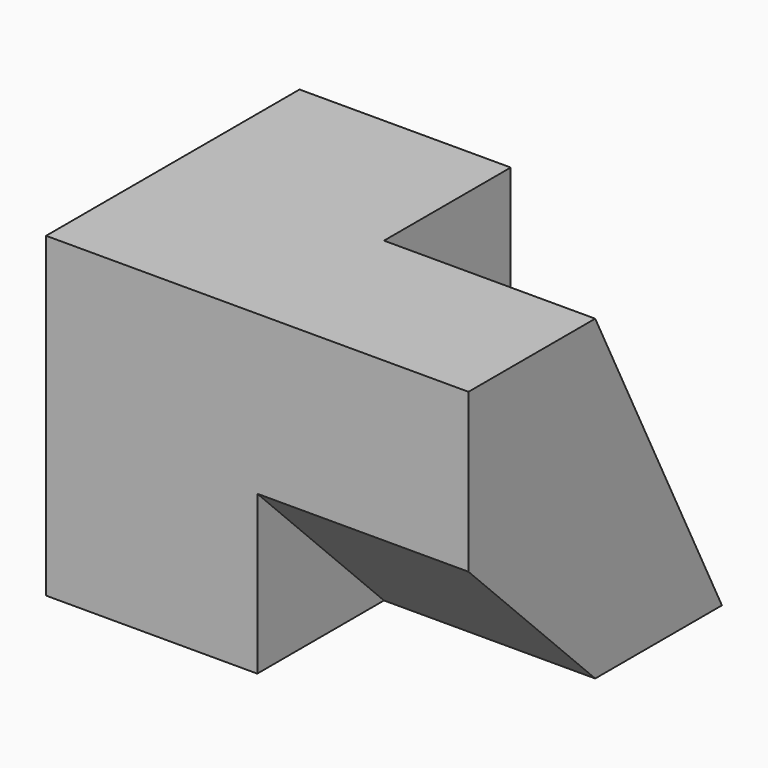
from build123d import *

# Parameters (mm, degrees)
F0_W     = 15
F0_H     = 15
F1_DEPTH = 20
F2_DEPTH = 40
F4_DEPTH = 20
F6_DEPTH = 20


with BuildPart() as f1:
    # F0 (on Right) → F1 (new body)
    with BuildSketch(Plane.YZ):
        with Locations((7.5, 7.5)):
            Rectangle(F0_W, F0_H)
        with Locations((22.5, 7.5)):
            Rectangle(F0_W, F0_H)
        with Locations((7.5, 22.5)):
            Rectangle(F0_W, F0_H)
        with Locations((22.5, 22.5)):
            Rectangle(F0_W, F0_H)
    extrude(amount=F1_DEPTH)

    # F0 (on Right) → F2 (join)
    with BuildSketch(Plane.YZ):
        with Locations((22.5, 7.5)):
            Rectangle(F0_W, F0_H)
        with Locations((22.5, 22.5)):
            Rectangle(F0_W, F0_H)
        with Locations((7.5, 22.5)):
            Rectangle(F0_W, F0_H)
    extrude(amount=F2_DEPTH)

    # F3 (on face) → F4 (cut)
    with BuildSketch(Plane.YZ.offset(40)):
        Polygon((30, 30), (15, 30), (30, 0), align=None)
    extrude(amount=-F4_DEPTH, mode=Mode.SUBTRACT)

    # F5 (on face) → F6 (join)
    with BuildSketch(Plane.YZ.offset(20)):
        Polygon((15, 15), (0, 15), (15, 0), align=None)
    extrude(amount=F6_DEPTH)


solid = f1.part
